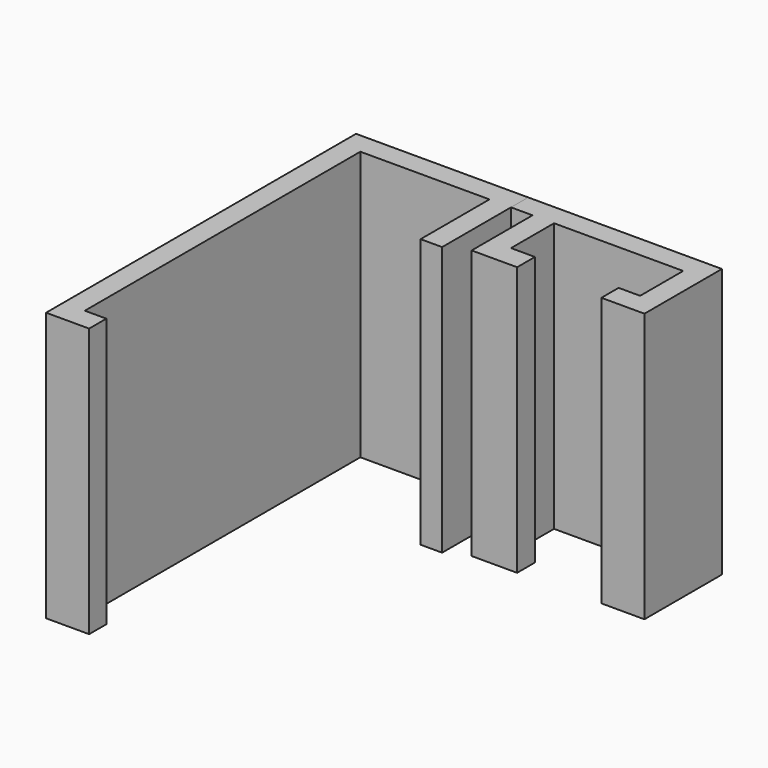
from build123d import *

# Parameters (mm, degrees)
F1_DEPTH = 25
F3_DEPTH = 25


with BuildPart() as f1:
    # F0 (on Top) → F1 (new body)
    with BuildSketch(Plane.XY):
        Polygon((13, 17), (1, 17), (-1, 17), (-1, 15), (-1, -17), (-1, -19), (3, -19), (3, -17), (1, -17), (1, 15), (13, 15), (13, 7), (15, 7), (15, 15), (15, 17), align=None)
    extrude(amount=F1_DEPTH)


with BuildPart() as f3:
    # F2 (on face) → F3 (new body)
    with BuildSketch(Plane.XY.offset(25)):
        Polygon((33, 17), (15, 17), (15, 15), (17, 15), (17, 7.928896), (19, 7.928896), (21.224555, 7.928896), (21.224555, 10), (19, 10), (19, 15), (31, 15), (31, 10), (29, 10), (29, 8), (31, 8), (33, 8), (33, 10), (33, 15), align=None)
    extrude(amount=-F3_DEPTH)


solid = Compound([f1.part, f3.part])
